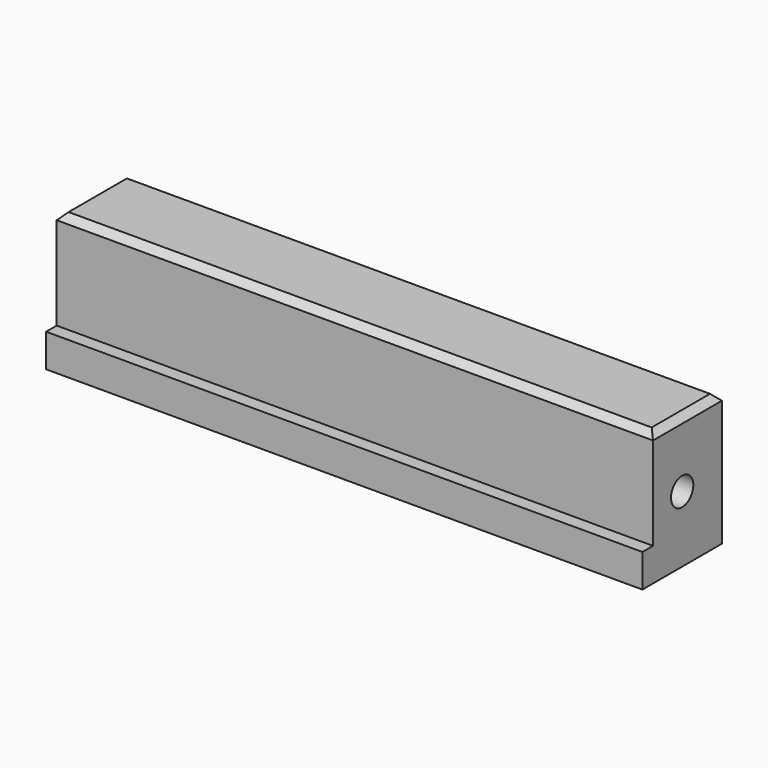
from build123d import *

# Parameters (mm, degrees)
F0_W     = 90
F0_H     = 15
F1_DEPTH = 5
F2_W     = 90
F2_H     = 13
F3_DEPTH = 15
F5_D     = 4.2
F5_DEPTH = 8
F5_TIP   = 1.2618073
F7_D     = 4.2
F7_DEPTH = 8
F7_TIP   = 1.2618073
F8_SIZE  = 1


with BuildPart() as f1:
    # F0 (on Top) → F1 (new body)
    with BuildSketch(Plane.XY):
        with Locations((45, 7.5)):
            Rectangle(F0_W, F0_H)
    extrude(amount=F1_DEPTH)

    # F2 (on face) → F3 (join)
    with BuildSketch(Plane.XY.offset(5)):
        with Locations((45, 8.5)):
            Rectangle(F2_W, F2_H)
    extrude(amount=F3_DEPTH)

    # F5
    with Locations(Plane.YZ.offset(90)):
        with Locations((7.5, 10)):
            Hole(F5_D / 2, depth=F5_DEPTH)
            with Locations((0, 0, -(F5_DEPTH + F5_TIP / 2))):  # 118° drill point
                Cone(0, F5_D / 2, F5_TIP, mode=Mode.SUBTRACT)

    # F7
    with Locations(Plane(origin=(0, 0, 0), x_dir=(0, -1, 0), z_dir=(-1, 0, 0))):
        with Locations((-7.5, 10)):
            Hole(F7_D / 2, depth=F7_DEPTH)
            with Locations((0, 0, -(F7_DEPTH + F7_TIP / 2))):  # 118° drill point
                Cone(0, F7_D / 2, F7_TIP, mode=Mode.SUBTRACT)

    # F8
    f8_edges = [f1.edges().sort_by_distance(p)[0] for p in [
        (45, 2, 20),
        (90, 8.5, 20),
        (45, 15, 20),
        (0, 8.5, 20),
    ]]
    chamfer(f8_edges, length=F8_SIZE)


solid = f1.part
